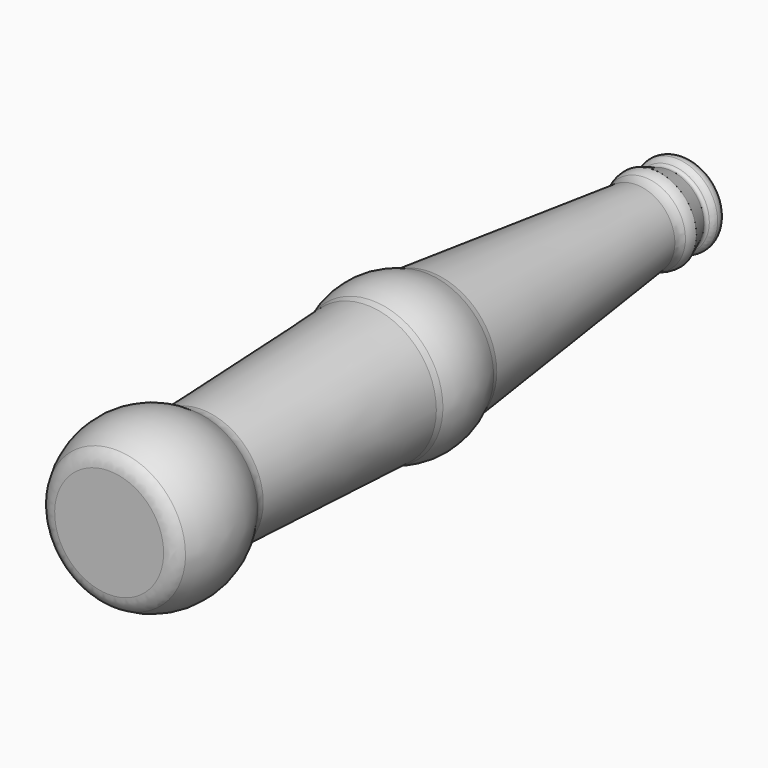
from build123d import *

# Parameters (mm, degrees)
F2_R = 5
F3_R = 1
F4_R = 2
F5_R = 1


with BuildPart() as f1:
    # F0 (on Top) → F1 (revolve)
    with BuildSketch(Plane.XY):
        with BuildLine():
            Line((-82.0906290412, 139.8843014733), (-82.0906290412, -59.2998478518))
            Line((-82.0906290412, -59.2998478518), (-64.5122481135, -59.2998478518))
            ThreePointArc((-64.5122481135, -59.2998478518), (-59.2014152737, -44.1918829627), (-65.0906290412, -29.2998478518))
            Line((-65.0906290412, -29.2998478518), (-62.7994687032, 30.7001521482))
            ThreePointArc((-62.7994687032, 30.7001521482), (-60.712066182, 40.7983740194), (-63.5906290412, 50.7001521482))
            Line((-63.5906290412, 50.7001521482), (-71.593447728, 124.7001521482))
            ThreePointArc((-71.593447728, 124.7001521482), (-70.4788963373, 126.5486603985), (-70.0906290412, 128.6719729191))
            Line((-70.0906290412, 128.6719729191), (-72.7197450747, 135.2447630028))
            Line((-72.7197450747, 135.2447630028), (-71.2075307965, 135.2447630028))
            ThreePointArc((-71.2075307965, 135.2447630028), (-70.7052287434, 137.9904429478), (-72.7556837168, 139.8843014733))
            Line((-72.7556837168, 139.8843014733), (-82.0906290412, 139.8843014733))
        make_face()
    revolve(axis=Axis((-82.0906290412, 40.2922268108, 0), (0, -1, 0)))

    # F2
    f2_edges = [f1.edges().sort_by_distance(p)[0] for p in [
        (-100.590629, 50.700152, 0),
        (-101.381789, 30.700152, 0),
        (-99.090629, -29.299848, 0),
        (-99.66901, -59.299848, 0),
        (-92.58781, 124.700152, 0),
    ]]
    fillet(f2_edges, radius=F2_R)

    # F3
    f3_edges = [f1.edges().sort_by_distance(p)[0] for p in [
        (-91.461513, 135.244763, 0),
    ]]
    fillet(f3_edges, radius=F3_R)

    # F4
    f4_edges = [f1.edges().sort_by_distance(p)[0] for p in [
        (-92.973727, 135.244763, 0),
    ]]
    fillet(f4_edges, radius=F4_R)

    # F5
    f5_edges = [f1.edges().sort_by_distance(p)[0] for p in [
        (-91.425574, 139.884301, 0),
    ]]
    fillet(f5_edges, radius=F5_R)


solid = f1.part
